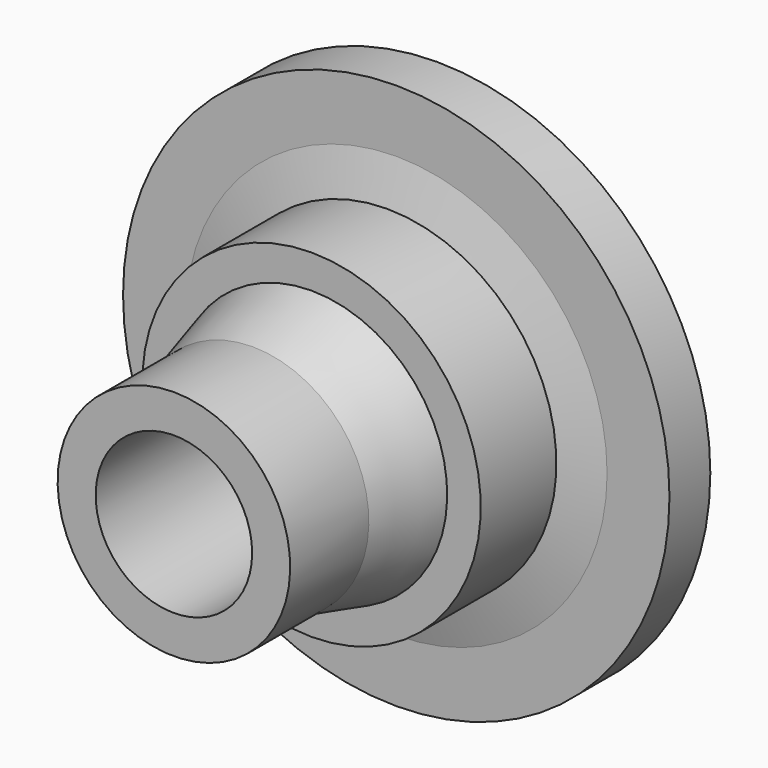
from build123d import *

# Parameters (mm, degrees)
F0_W     = 50.5326315761
F0_H     = 11.1810714006
F2_R     = 12.0172827334
F3_DEPTH = 50.5326315761


with BuildPart() as f1:
    # F0 (on Right) → F1 (revolve)
    with BuildSketch(Plane.YZ):
        Polygon((-50.5326315761, 11.1810714006), (0, 11.1810714006), (0, 41.9653169811), (-7.8412694857, 41.9653169811), (-7.8412694857, 32.381542027), (-9.5837758854, 25.992359966), (-24.1046473384, 25.992359966), (-24.1046473384, 20.8354885775), (-35.4309231043, 17.8606715053), (-50.5326315761, 17.8606715053), align=None)
        with Locations((-25.266315788, 5.5905357003)):
            Rectangle(F0_W, F0_H)
    revolve(axis=Axis((0, -25.266315788, 0), (0, -1, 0)))

    # F2 (on face) → F3 (cut, through all)
    with BuildSketch(Plane.XZ.offset(50.5326315761)):
        Circle(F2_R)
    extrude(amount=-F3_DEPTH, mode=Mode.SUBTRACT)


solid = f1.part
